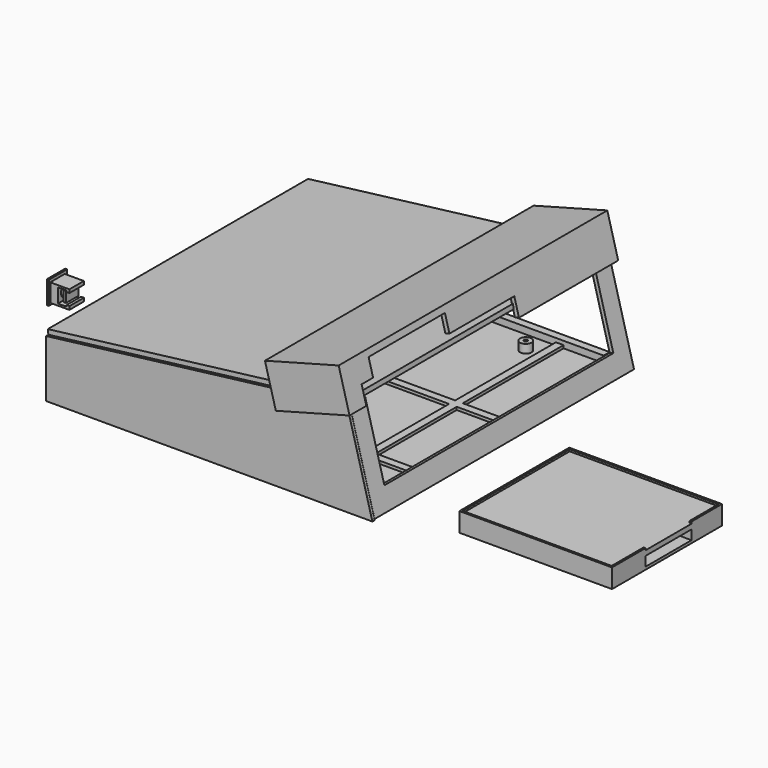
from build123d import *

# Parameters (mm, degrees)
BOX005_W               = 159
BOX005_H               = 170.5
BOX005_DEPTH           = 2.5
BOX005_PLACEMENT_ANGLE = 7
BOX024_W               = 159
BOX024_H               = 170.5
BOX024_DEPTH           = 20.5
BOX024_PLACEMENT_ANGLE = 7
BOX023_W               = 25
BOX023_H               = 170
BOX023_DEPTH           = 53
BOX023_PLACEMENT_ANGLE = 15
BOX022_W               = 171
BOX022_H               = 1.5
BOX022_DEPTH           = 49
BOX021_W               = 10
BOX021_H               = 10
BOX021_DEPTH           = 10
BOX004_W               = 10
BOX004_H               = 110
BOX004_DEPTH           = 10
CYLINDER004_R          = 3.5
CYLINDER004_DEPTH      = 10
BOX002_W               = 1.5
BOX002_H               = 170
BOX002_DEPTH           = 28.5
CYLINDER_R             = 1
CYLINDER_DEPTH         = 10
CYLINDER005_R          = 1
CYLINDER005_DEPTH      = 10
CYLINDER006_R          = 1
CYLINDER006_DEPTH      = 10
BOX026_W               = 5
BOX026_H               = 5
BOX026_DEPTH           = 28.5
BOX025_W               = 5
BOX025_H               = 5
BOX025_DEPTH           = 28.5
CYLINDER007_R          = 1
CYLINDER007_DEPTH      = 47
BOX036_W               = 151
BOX036_H               = 4
BOX036_DEPTH           = 2
BOX037_W               = 151
BOX037_H               = 4
BOX037_DEPTH           = 2
BOX038_W               = 170
BOX038_H               = 4
BOX038_DEPTH           = 2
BOX039_W               = 170
BOX039_H               = 4
BOX039_DEPTH           = 2
BOX040_W               = 170
BOX040_H               = 4
BOX040_DEPTH           = 2
BOX_W                  = 170
BOX_H                  = 170
BOX_DEPTH              = 1.5
BOX029_W               = 2
BOX029_H               = 170
BOX029_DEPTH           = 55
BOX029_PLACEMENT_ANGLE = 15
BOX028_W               = 151
BOX028_H               = 4
BOX028_DEPTH           = 4
TUBE003_R              = 3
TUBE003_R_2            = 1
TUBE003_DEPTH          = 5
TUBE004_R              = 3
TUBE004_R_2            = 1
TUBE004_DEPTH          = 5
TUBE005_R              = 3
TUBE005_R_2            = 1
TUBE005_DEPTH          = 5
TUBE002_R              = 3
TUBE002_R_2            = 1
TUBE002_DEPTH          = 5
BOX027_W               = 151
BOX027_H               = 4
BOX027_DEPTH           = 4
BOX030_W               = 5
BOX030_H               = 3
BOX030_DEPTH           = 37
BOX030_PLACEMENT_ANGLE = 15
BOX031_W               = 5
BOX031_H               = 3
BOX031_DEPTH           = 37
BOX031_PLACEMENT_ANGLE = 15
BOX020_W               = 24
BOX020_H               = 150
BOX020_DEPTH           = 40
BOX020_PLACEMENT_ANGLE = 15
BOX001_W               = 2
BOX001_H               = 170
BOX001_DEPTH           = 50
BOX001_PLACEMENT_ANGLE = 15
BOX035_W               = 91
BOX035_H               = 30
BOX035_DEPTH           = 5
BOX034_W               = 78
BOX034_H               = 70
BOX034_DEPTH           = 10
BOX033_W               = 100
BOX033_H               = 30
BOX033_DEPTH           = 5
BOX033_PITCH_ANGLE     = 1
BOX032_W               = 80
BOX032_H               = 72
BOX032_DEPTH           = 10
BOX046_W               = 2
BOX046_H               = 5
BOX046_DEPTH           = 15
BOX046_PLACEMENT_ANGLE = 15
BOX047_W               = 10
BOX047_H               = 2
BOX047_DEPTH           = 20
BOX047_PLACEMENT_ANGLE = 15
BOX048_W               = 2
BOX048_H               = 5
BOX048_DEPTH           = 15
BOX048_PLACEMENT_ANGLE = 15
BOX049_W               = 10
BOX049_H               = 2.5
BOX049_DEPTH           = 20
BOX049_PLACEMENT_ANGLE = 15
BOX045_W               = 10
BOX045_H               = 50
BOX045_DEPTH           = 10
BOX045_PLACEMENT_ANGLE = 15
BOX044_W               = 1.5
BOX044_H               = 44
BOX044_DEPTH           = 3
BOX044_PLACEMENT_ANGLE = 15
BOX043_W               = 40
BOX043_H               = 172
BOX043_DEPTH           = 20
BOX043_PLACEMENT_ANGLE = 15
BOX042_W               = 45
BOX042_H               = 100
BOX042_DEPTH           = 23
BOX042_PLACEMENT_ANGLE = 15
BOX041_W               = 40
BOX041_H               = 176
BOX041_DEPTH           = 22
BOX041_PLACEMENT_ANGLE = 15
BOX053_W               = 4.5
BOX053_H               = 13
BOX053_DEPTH           = 6
BOX052_W               = 4.5
BOX052_H               = 13
BOX052_DEPTH           = 7.5
CYLINDER008_R          = 3
CYLINDER008_DEPTH      = 9
BOX051_W               = 1
BOX051_H               = 12
BOX051_DEPTH           = 12
BOX050_W               = 11
BOX050_H               = 9.5
BOX050_DEPTH           = 9.5
BOX054_W               = 1.5
BOX054_H               = 8
BOX054_DEPTH           = 5.5
CYLINDER009_R          = 2.5
CYLINDER009_DEPTH      = 10


with BuildPart() as top:
    # Box005 → Box005 (new body)
    with BuildSketch(Plane.XY):
        with Locations((79.5, 85.25)):
            Rectangle(BOX005_W, BOX005_H)
    extrude(amount=BOX005_DEPTH)


with BuildPart() as top_1:
    # Box005 placement: moved
    add(top.part.moved(Location((0, 0, 20))).rotate(Axis((0, 0, 20), (0, -1, 0)), BOX005_PLACEMENT_ANGLE))


with BuildPart() as top001:
    # Box024 → Box024 (new body)
    with BuildSketch(Plane.XY):
        with Locations((79.5, 85.25)):
            Rectangle(BOX024_W, BOX024_H)
    extrude(amount=BOX024_DEPTH)


with BuildPart() as top001_1:
    # Box024 placement: moved
    add(top001.part.moved(Location((0, 0, 20))).rotate(Axis((0, 0, 20), (0, -1, 0)), BOX024_PLACEMENT_ANGLE))


with BuildPart() as face002:
    # Box023 → Box023 (new body)
    with BuildSketch(Plane.XY):
        with Locations((12.5, 85)):
            Rectangle(BOX023_W, BOX023_H)
    extrude(amount=BOX023_DEPTH)


with BuildPart() as face002_1:
    # Box023 placement: moved
    add(face002.part.moved(Location((171, -14, -10))).rotate(Axis((171, -14, -10), (0, -1, 0)), BOX023_PLACEMENT_ANGLE))


with BuildPart() as sidewall:
    # Box022 → Box022 (new body)
    with BuildSketch(Plane.XY.offset(-10)):
        with Locations((85.5, 0.75)):
            Rectangle(BOX022_W, BOX022_H)
    extrude(amount=BOX022_DEPTH)

    # Cut007: cut Face002
    add(face002_1.part, mode=Mode.SUBTRACT)

    # Cut008: cut top001
    add(top001_1.part, mode=Mode.SUBTRACT)


with BuildPart() as sidewall_1:
    # Cut008 placement: moved
    add(sidewall.part.moved(Location((0, -1.5, 0))))


with BuildPart() as reset:
    # Box021 → Box021 (new body)
    with BuildSketch(Plane(origin=(-2, 154, 7), x_dir=(1, 0, 0), z_dir=(0, 0, 1))):
        with Locations((5, 5)):
            Rectangle(BOX021_W, BOX021_H)
    extrude(amount=BOX021_DEPTH)


with BuildPart() as cube003:
    # Box004 → Box004 (new body)
    with BuildSketch(Plane(origin=(-3, 38, -5), x_dir=(1, 0, 0), z_dir=(0, 0, 1))):
        with Locations((5, 55)):
            Rectangle(BOX004_W, BOX004_H)
    extrude(amount=BOX004_DEPTH)


with BuildPart() as pwrjack:
    # Cylinder004 → Cylinder004 (new body)
    with BuildSketch(Plane(origin=(-3, 16, 7), x_dir=(0, 0, -1), z_dir=(1, 0, 0))):
        Circle(CYLINDER004_R)
    extrude(amount=CYLINDER004_DEPTH)


with BuildPart() as cut006:
    # Box002 → Box002 (new body)
    with BuildSketch(Plane.XY.offset(-10)):
        with Locations((0.75, 85)):
            Rectangle(BOX002_W, BOX002_H)
    extrude(amount=BOX002_DEPTH)

    # Cut003: cut pwrjack
    add(pwrjack.part, mode=Mode.SUBTRACT)

    # Cut: cut Cube003
    add(cube003.part, mode=Mode.SUBTRACT)

    # Cut006: cut reset
    add(reset.part, mode=Mode.SUBTRACT)


with BuildPart() as cut006_1:
    # Cut006 placement: moved
    add(cut006.part.moved(Location((0, 0, 1.5))))


with BuildPart() as cylinder:
    # Cylinder → Cylinder (new body)
    with BuildSketch(Plane(origin=(1.5, 22, 17), x_dir=(1, 0, 0), z_dir=(0, -1, 0))):
        Circle(CYLINDER_R)
    extrude(amount=CYLINDER_DEPTH)


with BuildPart() as cylinder005:
    # Cylinder005 → Cylinder005 (new body)
    with BuildSketch(Plane(origin=(1.5, 83, 17), x_dir=(1, 0, 0), z_dir=(0, -1, 0))):
        Circle(CYLINDER005_R)
    extrude(amount=CYLINDER005_DEPTH)


with BuildPart() as cylinder006:
    # Cylinder006 → Cylinder006 (new body)
    with BuildSketch(Plane(origin=(1.5, 147, 17), x_dir=(1, 0, 0), z_dir=(0, -1, 0))):
        Circle(CYLINDER006_R)
    extrude(amount=CYLINDER006_DEPTH)


with BuildPart() as cube005:
    # Box026 → Box026 (new body)
    with BuildSketch(Plane(origin=(1, 165, -8.5), x_dir=(1, 0, 0), z_dir=(0, 0, 1))):
        with Locations((2.5, 2.5)):
            Rectangle(BOX026_W, BOX026_H)
    extrude(amount=BOX026_DEPTH)


with BuildPart() as fusion:
    # Box025 → Box025 (new body)
    with BuildSketch(Plane(origin=(1, 0, -8.5), x_dir=(1, 0, 0), z_dir=(0, 0, 1))):
        with Locations((2.5, 2.5)):
            Rectangle(BOX025_W, BOX025_H)
    extrude(amount=BOX025_DEPTH)

    # Fusion: union Cut006, Cylinder, Cylinder005, Cylinder006, Cube005
    add(cut006_1.part)
    add(cylinder.part)
    add(cylinder005.part)
    add(cylinder006.part)
    add(cube005.part)


with BuildPart() as cylinder007:
    # Cylinder007 → Cylinder007 (new body)
    with BuildSketch(Plane(origin=(167.4, 94, -8.1), x_dir=(1, 0, 0), z_dir=(0, -1, 0))):
        Circle(CYLINDER007_R)
    extrude(amount=CYLINDER007_DEPTH)


with BuildPart() as cube014:
    # Box036 → Box036 (new body)
    with BuildSketch(Plane(origin=(8, 96, -9), x_dir=(1, 0, 0), z_dir=(0, 0, 1))):
        with Locations((75.5, 2)):
            Rectangle(BOX036_W, BOX036_H)
    extrude(amount=BOX036_DEPTH)


with BuildPart() as cube015:
    # Box037 → Box037 (new body)
    with BuildSketch(Plane(origin=(8, 39, -9), x_dir=(1, 0, 0), z_dir=(0, 0, 1))):
        with Locations((75.5, 2)):
            Rectangle(BOX037_W, BOX037_H)
    extrude(amount=BOX037_DEPTH)


with BuildPart() as cube016:
    # Box038 → Box038 (new body)
    with BuildSketch(Plane(origin=(29, 0, -9), x_dir=(0, 1, 0), z_dir=(0, 0, 1))):
        with Locations((85, 2)):
            Rectangle(BOX038_W, BOX038_H)
    extrude(amount=BOX038_DEPTH)


with BuildPart() as cube017:
    # Box039 → Box039 (new body)
    with BuildSketch(Plane(origin=(84, 0, -9), x_dir=(0, 1, 0), z_dir=(0, 0, 1))):
        with Locations((85, 2)):
            Rectangle(BOX039_W, BOX039_H)
    extrude(amount=BOX039_DEPTH)


with BuildPart() as cube018:
    # Box040 → Box040 (new body)
    with BuildSketch(Plane(origin=(138, 0, -9), x_dir=(0, 1, 0), z_dir=(0, 0, 1))):
        with Locations((85, 2)):
            Rectangle(BOX040_W, BOX040_H)
    extrude(amount=BOX040_DEPTH)


with BuildPart() as base:
    # Box → Box (new body)
    with BuildSketch(Plane.XY.offset(-10)):
        with Locations((85, 85)):
            Rectangle(BOX_W, BOX_H)
    extrude(amount=BOX_DEPTH)


with BuildPart() as face003:
    # Box029 → Box029 (new body)
    with BuildSketch(Plane.XY):
        with Locations((1, 85)):
            Rectangle(BOX029_W, BOX029_H)
    extrude(amount=BOX029_DEPTH)


with BuildPart() as face003_1:
    # Box029 placement: moved
    add(face003.part.moved(Location((169.2, 0, -11))).rotate(Axis((169.2, 0, -11), (0, -1, 0)), BOX029_PLACEMENT_ANGLE))


with BuildPart() as cube007:
    # Box028 → Box028 (new body)
    with BuildSketch(Plane(origin=(8, 166, -9), x_dir=(1, 0, 0), z_dir=(0, 0, 1))):
        with Locations((75.5, 2)):
            Rectangle(BOX028_W, BOX028_H)
    extrude(amount=BOX028_DEPTH)


with BuildPart() as tube003:
    # Tube003 → Tube003 (new body)
    with BuildSketch(Plane(origin=(10, 135.5, -9), x_dir=(1, 0, 0), z_dir=(0, 0, 1))):
        Circle(TUBE003_R)
        Circle(TUBE003_R_2, mode=Mode.SUBTRACT)
    extrude(amount=TUBE003_DEPTH)


with BuildPart() as tube004:
    # Tube004 → Tube004 (new body)
    with BuildSketch(Plane(origin=(127, 135, -9), x_dir=(1, 0, 0), z_dir=(0, 0, 1))):
        Circle(TUBE004_R)
        Circle(TUBE004_R_2, mode=Mode.SUBTRACT)
    extrude(amount=TUBE004_DEPTH)


with BuildPart() as tube005:
    # Tube005 → Tube005 (new body)
    with BuildSketch(Plane(origin=(127, 10, -9), x_dir=(1, 0, 0), z_dir=(0, 0, 1))):
        Circle(TUBE005_R)
        Circle(TUBE005_R_2, mode=Mode.SUBTRACT)
    extrude(amount=TUBE005_DEPTH)


with BuildPart() as fusion003:
    # Tube002 → Tube002 (new body)
    with BuildSketch(Plane(origin=(10, 10, -9), x_dir=(1, 0, 0), z_dir=(0, 0, 1))):
        Circle(TUBE002_R)
        Circle(TUBE002_R_2, mode=Mode.SUBTRACT)
    extrude(amount=TUBE002_DEPTH)

    # Fusion003: union Tube003, Tube004, Tube005
    add(tube003.part)
    add(tube004.part)
    add(tube005.part)


with BuildPart() as fusion003_1:
    # Fusion003 placement: moved
    add(fusion003.part.moved(Location((0, 20, 0))))


with BuildPart() as fusion006:
    # Box027 → Box027 (new body)
    with BuildSketch(Plane(origin=(8, 0, -9), x_dir=(1, 0, 0), z_dir=(0, 0, 1))):
        with Locations((75.5, 2)):
            Rectangle(BOX027_W, BOX027_H)
    extrude(amount=BOX027_DEPTH)

    # Fusion005: union Cube007, Fusion003
    add(cube007.part)
    add(fusion003_1.part)

    # Cut009: cut Face003
    add(face003_1.part, mode=Mode.SUBTRACT)

    # Fusion006: union Cylinder007, Cube014, Cube015, Cube016, Cube017, Cube018, base
    add(cylinder007.part)
    add(cube014.part)
    add(cube015.part)
    add(cube016.part)
    add(cube017.part)
    add(cube018.part)
    add(base.part)


with BuildPart() as fusion006_1:
    # Fusion006 placement: moved
    add(fusion006.part.moved(Location((0, -1, 0))))


with BuildPart() as cube008:
    # Box030 → Box030 (new body)
    with BuildSketch(Plane.XY):
        with Locations((2.5, 1.5)):
            Rectangle(BOX030_W, BOX030_H)
    extrude(amount=BOX030_DEPTH)


with BuildPart() as cube008_1:
    # Box030 placement: moved
    add(cube008.part.moved(Location((162, 0, -2))).rotate(Axis((162, 0, -2), (0, -1, 0)), BOX030_PLACEMENT_ANGLE))


with BuildPart() as cube009:
    # Box031 → Box031 (new body)
    with BuildSketch(Plane.XY):
        with Locations((2.5, 1.5)):
            Rectangle(BOX031_W, BOX031_H)
    extrude(amount=BOX031_DEPTH)


with BuildPart() as cube009_1:
    # Box031 placement: moved
    add(cube009.part.moved(Location((162, 167, -2))).rotate(Axis((162, 167, -2), (0, -1, 0)), BOX031_PLACEMENT_ANGLE))


with BuildPart() as face001:
    # Box020 → Box020 (new body)
    with BuildSketch(Plane.XY):
        with Locations((12, 75)):
            Rectangle(BOX020_W, BOX020_H)
    extrude(amount=BOX020_DEPTH)


with BuildPart() as face001_1:
    # Box020 placement: moved
    add(face001.part.moved(Location((164, 10, 0))).rotate(Axis((164, 10, 0), (0, -1, 0)), BOX020_PLACEMENT_ANGLE))


with BuildPart() as fusion007:
    # Box001 → Box001 (new body)
    with BuildSketch(Plane.XY):
        with Locations((1, 85)):
            Rectangle(BOX001_W, BOX001_H)
    extrude(amount=BOX001_DEPTH)


with BuildPart() as fusion007_1:
    # Box001 placement: moved
    add(fusion007.part.moved(Location((169, 0, -10))).rotate(Axis((169, 0, -10), (0, -1, 0)), BOX001_PLACEMENT_ANGLE))

    # Cut005: cut Face001
    add(face001_1.part, mode=Mode.SUBTRACT)

    # Fusion007: union Cube008, Cube009
    add(cube008_1.part)
    add(cube009_1.part)


with BuildPart() as cube013:
    # Box035 → Box035 (new body)
    with BuildSketch(Plane(origin=(293, 20, 9), x_dir=(1, 0, 0), z_dir=(0, 0, 1))):
        with Locations((45.5, 15)):
            Rectangle(BOX035_W, BOX035_H)
    extrude(amount=BOX035_DEPTH)


with BuildPart() as cube012:
    # Box034 → Box034 (new body)
    with BuildSketch(Plane(origin=(218, -1, 9), x_dir=(1, 0, 0), z_dir=(0, 0, 1))):
        with Locations((39, 35)):
            Rectangle(BOX034_W, BOX034_H)
    extrude(amount=BOX034_DEPTH)


with BuildPart() as cube011:
    # Box033 → Box033 (new body)
    with BuildSketch(Plane.XY):
        with Locations((50, 15)):
            Rectangle(BOX033_W, BOX033_H)
    extrude(amount=BOX033_DEPTH)


with BuildPart() as cube011_1:
    # Box033 pitch: moved
    add(cube011.part.rotate(Axis((0, 0, 0), (0, 1, 0)), BOX033_PITCH_ANGLE))


with BuildPart() as cube011_2:
    # Box033 placement: moved
    add(cube011_1.part.moved(Location((206, 20, 3))))


with BuildPart() as cut012:
    # Box032 → Box032 (new body)
    with BuildSketch(Plane(origin=(217, -2, 0), x_dir=(1, 0, 0), z_dir=(0, 0, 1))):
        with Locations((40, 36)):
            Rectangle(BOX032_W, BOX032_H)
    extrude(amount=BOX032_DEPTH)

    # Cut010: cut Cube011
    add(cube011_2.part, mode=Mode.SUBTRACT)

    # Cut011: cut Cube012
    add(cube012.part, mode=Mode.SUBTRACT)

    # Cut012: cut Cube013
    add(cube013.part, mode=Mode.SUBTRACT)


with BuildPart() as cube024:
    # Box046 → Box046 (new body)
    with BuildSketch(Plane.XY):
        with Locations((1, 2.5)):
            Rectangle(BOX046_W, BOX046_H)
    extrude(amount=BOX046_DEPTH)


with BuildPart() as cube024_1:
    # Box046 placement: moved
    add(cube024.part.moved(Location((153, 2, 41))).rotate(Axis((153, 2, 41), (0, -1, 0)), BOX046_PLACEMENT_ANGLE))


with BuildPart() as cube025:
    # Box047 → Box047 (new body)
    with BuildSketch(Plane.XY):
        with Locations((5, 1)):
            Rectangle(BOX047_W, BOX047_H)
    extrude(amount=BOX047_DEPTH)


with BuildPart() as cube025_1:
    # Box047 placement: moved
    add(cube025.part.moved(Location((138, 0.5, 32))).rotate(Axis((138, 0.5, 32), (0, -1, 0)), BOX047_PLACEMENT_ANGLE))


with BuildPart() as cube026:
    # Box048 → Box048 (new body)
    with BuildSketch(Plane.XY):
        with Locations((1, 2.5)):
            Rectangle(BOX048_W, BOX048_H)
    extrude(amount=BOX048_DEPTH)


with BuildPart() as cube026_1:
    # Box048 placement: moved
    add(cube026.part.moved(Location((153, 161, 41))).rotate(Axis((153, 161, 41), (0, -1, 0)), BOX048_PLACEMENT_ANGLE))


with BuildPart() as cube027:
    # Box049 → Box049 (new body)
    with BuildSketch(Plane.XY):
        with Locations((5, 1.25)):
            Rectangle(BOX049_W, BOX049_H)
    extrude(amount=BOX049_DEPTH)


with BuildPart() as cube027_1:
    # Box049 placement: moved
    add(cube027.part.moved(Location((138, 166, 32))).rotate(Axis((138, 166, 32), (0, -1, 0)), BOX049_PLACEMENT_ANGLE))


with BuildPart() as cube023:
    # Box045 → Box045 (new body)
    with BuildSketch(Plane.XY):
        with Locations((5, 25)):
            Rectangle(BOX045_W, BOX045_H)
    extrude(amount=BOX045_DEPTH)


with BuildPart() as cube023_1:
    # Box045 placement: moved
    add(cube023.part.moved(Location((156, 15, 44))).rotate(Axis((156, 15, 44), (0, -1, 0)), BOX045_PLACEMENT_ANGLE))


with BuildPart() as cube022:
    # Box044 → Box044 (new body)
    with BuildSketch(Plane.XY):
        with Locations((0.75, 22)):
            Rectangle(BOX044_W, BOX044_H)
    extrude(amount=BOX044_DEPTH)


with BuildPart() as cube022_1:
    # Box044 placement: moved
    add(cube022.part.moved(Location((151, 67, 51))).rotate(Axis((151, 67, 51), (0, -1, 0)), BOX044_PLACEMENT_ANGLE))


with BuildPart() as cube021:
    # Box043 → Box043 (new body)
    with BuildSketch(Plane.XY):
        with Locations((20, 86)):
            Rectangle(BOX043_W, BOX043_H)
    extrude(amount=BOX043_DEPTH)


with BuildPart() as cube021_1:
    # Box043 placement: moved
    add(cube021.part.moved(Location((120, -1.5, 25))).rotate(Axis((120, -1.5, 25), (0, -1, 0)), BOX043_PLACEMENT_ANGLE))


with BuildPart() as cube020:
    # Box042 → Box042 (new body)
    with BuildSketch(Plane.XY):
        with Locations((22.5, 50)):
            Rectangle(BOX042_W, BOX042_H)
    extrude(amount=BOX042_DEPTH)


with BuildPart() as cube020_1:
    # Box042 placement: moved
    add(cube020.part.moved(Location((122, 7.5, 12))).rotate(Axis((122, 7.5, 12), (0, -1, 0)), BOX042_PLACEMENT_ANGLE))


with BuildPart() as fusion009:
    # Box041 → Box041 (new body)
    with BuildSketch(Plane.XY):
        with Locations((20, 88)):
            Rectangle(BOX041_W, BOX041_H)
    extrude(amount=BOX041_DEPTH)


with BuildPart() as fusion009_1:
    # Box041 placement: moved
    add(fusion009.part.moved(Location((122, -3.5, 26))).rotate(Axis((122, -3.5, 26), (0, -1, 0)), BOX041_PLACEMENT_ANGLE))

    # Cut013: cut Cube020
    add(cube020_1.part, mode=Mode.SUBTRACT)

    # Cut014: cut Cube021
    add(cube021_1.part, mode=Mode.SUBTRACT)

    # Fusion008: union Cube022
    add(cube022_1.part)

    # Cut015: cut Cube023
    add(cube023_1.part, mode=Mode.SUBTRACT)

    # Fusion009: union Cube024, Cube025, Cube026, Cube027
    add(cube024_1.part)
    add(cube025_1.part)
    add(cube026_1.part)
    add(cube027_1.part)


with BuildPart() as cube031:
    # Box053 → Box053 (new body)
    with BuildSketch(Plane(origin=(9, -1, 36.75), x_dir=(1, 0, 0), z_dir=(0, 0, 1))):
        with Locations((2.25, 6.5)):
            Rectangle(BOX053_W, BOX053_H)
    extrude(amount=BOX053_DEPTH)


with BuildPart() as cube030:
    # Box052 → Box052 (new body)
    with BuildSketch(Plane(origin=(5, -1, 36), x_dir=(1, 0, 0), z_dir=(0, 0, 1))):
        with Locations((2.25, 6.5)):
            Rectangle(BOX052_W, BOX052_H)
    extrude(amount=BOX052_DEPTH)


with BuildPart() as cylinder008:
    # Cylinder008 → Cylinder008 (new body)
    with BuildSketch(Plane(origin=(-1, 5, 40), x_dir=(0, 0, -1), z_dir=(1, 0, 0))):
        Circle(CYLINDER008_R)
    extrude(amount=CYLINDER008_DEPTH)


with BuildPart() as cube029:
    # Box051 → Box051 (new body)
    with BuildSketch(Plane(origin=(0, -1, 34), x_dir=(1, 0, 0), z_dir=(0, 0, 1))):
        with Locations((0.5, 6)):
            Rectangle(BOX051_W, BOX051_H)
    extrude(amount=BOX051_DEPTH)


with BuildPart() as cut018:
    # Box050 → Box050 (new body)
    with BuildSketch(Plane.XY.offset(35)):
        with Locations((5.5, 4.75)):
            Rectangle(BOX050_W, BOX050_H)
    extrude(amount=BOX050_DEPTH)

    # Fusion010: union Cube029
    add(cube029.part)

    # Cut016: cut Cylinder008
    add(cylinder008.part, mode=Mode.SUBTRACT)

    # Cut017: cut Cube030
    add(cube030.part, mode=Mode.SUBTRACT)

    # Cut018: cut Cube031
    add(cube031.part, mode=Mode.SUBTRACT)


with BuildPart() as cube032:
    # Box054 → Box054 (new body)
    with BuildSketch(Plane(origin=(7, 1, 37), x_dir=(1, 0, 0), z_dir=(0, 0, 1))):
        with Locations((0.75, 4)):
            Rectangle(BOX054_W, BOX054_H)
    extrude(amount=BOX054_DEPTH)


with BuildPart() as fusion011:
    # Cylinder009 → Cylinder009 (new body)
    with BuildSketch(Plane(origin=(-2, 5, 40), x_dir=(0, 0, -1), z_dir=(1, 0, 0))):
        Circle(CYLINDER009_R)
    extrude(amount=CYLINDER009_DEPTH)

    # Fusion011: union Cube032
    add(cube032.part)


solid = Compound([top_1.part, sidewall_1.part, fusion.part, fusion006_1.part, fusion007_1.part, cut012.part, fusion009_1.part, cut018.part, fusion011.part])
